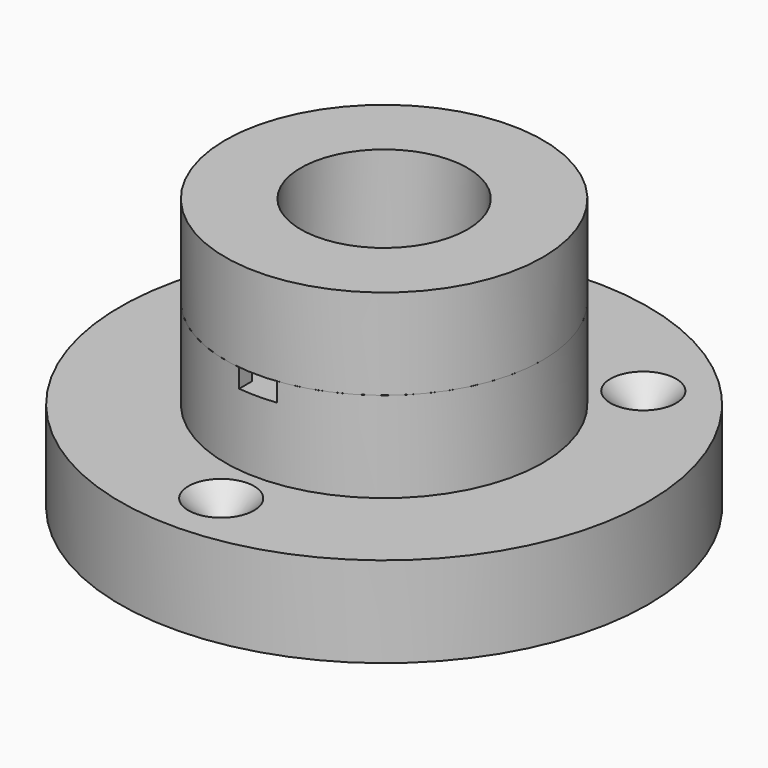
from build123d import *

# Parameters (mm, degrees)
F0_R     = 35
F0_R_2   = 1.3602375339
F0_R_3   = 3
F0_R_4   = 11.05
F1_DEPTH = 12
F2_R     = 21.05
F2_R_2   = 3
F2_R_3   = 11.05
F3_DEPTH = 12
F4_W     = 5
F4_H     = 4.2
F4_W_2   = 2.8
F5_DEPTH = 2.5
F6_R     = 21.05
F6_R_2   = 11.05
F7_DEPTH = 12
F8_SIZE  = 3


with BuildPart() as f1:
    # F0 (on Top) → F1 (new body)
    with BuildSketch(Plane.XY):
        Circle(F0_R)
        with Locations((0, -27)):
            Circle(F0_R_2, mode=Mode.SUBTRACT)
        with Locations((-15.05, 0)):
            Circle(F0_R_3, mode=Mode.SUBTRACT)
        with Locations((-19.091883092, 19.091883092)):
            Circle(F0_R_2, mode=Mode.SUBTRACT)
        Circle(F0_R_4, mode=Mode.SUBTRACT)
        with Locations((15.05, 0)):
            Circle(F0_R_3, mode=Mode.SUBTRACT)
        with Locations((19.091883092, 19.091883092)):
            Circle(F0_R_2, mode=Mode.SUBTRACT)
    extrude(amount=F1_DEPTH)

    # F8
    f8_edges = [f1.edges().sort_by_distance(p)[0] for p in [
        (-20.452121, 19.091883, 12),
        (-1.360238, -27, 12),
        (17.731646, 19.091883, 12),
    ]]
    chamfer(f8_edges, length=F8_SIZE)


with BuildPart() as f3:
    # F2 (on face) → F3 (new body)
    with BuildSketch(Plane.XY.offset(12)):
        Circle(F2_R)
        with Locations((-15.05, 0)):
            Circle(F2_R_2, mode=Mode.SUBTRACT)
        Circle(F2_R_3, mode=Mode.SUBTRACT)
        with Locations((15.05, 0)):
            Circle(F2_R_2, mode=Mode.SUBTRACT)
    extrude(amount=F3_DEPTH)

    # F4 (on face) → F5 (cut)
    with BuildSketch(Plane.XY.offset(24)):
        with Locations((0, -16.6352150679)):
            Rectangle(F4_W, F4_H)
        with Locations((-3.9, -16.6352150679)):
            Rectangle(F4_W_2, F4_H)
        with BuildLine():
            ThreePointArc((2.5, -10.7634799205), (0, -11.05), (-2.5, -10.7634799205))
            Line((-2.5, -10.7634799205), (-2.5, -14.5352150679))
            Line((-2.5, -14.5352150679), (2.5, -14.5352150679))
            Line((2.5, -14.5352150679), (2.5, -10.7634799205))
        make_face()
        with Locations((3.9, -16.6352150679)):
            Rectangle(F4_W_2, F4_H)
        with BuildLine():
            Line((2.5, -18.7352150679), (-2.5, -18.7352150679))
            Line((-2.5, -18.7352150679), (-2.5, -20.9010167217))
            ThreePointArc((-2.5, -20.9010167217), (0, -21.05), (2.5, -20.9010167217))
            Line((2.5, -20.9010167217), (2.5, -18.7352150679))
        make_face()
    extrude(amount=-F5_DEPTH, mode=Mode.SUBTRACT)


with BuildPart() as f7:
    # F6 (on face) → F7 (new body)
    with BuildSketch(Plane.XY.offset(24)):
        Circle(F6_R)
        Circle(F6_R_2, mode=Mode.SUBTRACT)
    extrude(amount=F7_DEPTH)


solid = Compound([f1.part, f3.part, f7.part])
